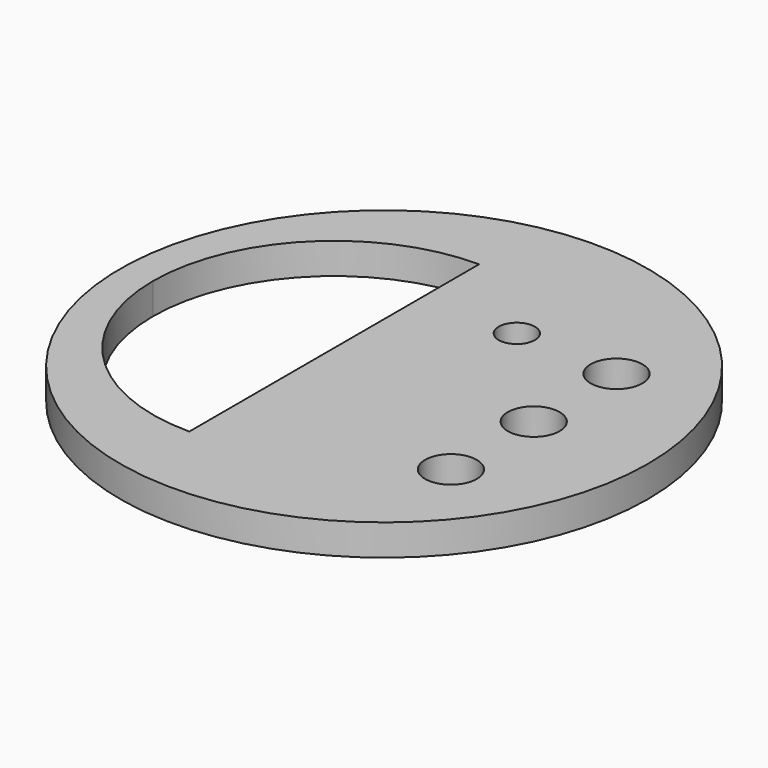
from build123d import *

# Parameters (mm, degrees)
F0_R     = 51
F0_R_2   = 5
F0_R_3   = 3.5
F1_DEPTH = 6


with BuildPart() as f1:
    # F0 (on Top) → F1 (new body)
    with BuildSketch(Plane.XY):
        Circle(F0_R)
        with Locations((28.914182, -20)):
            Circle(F0_R_2, mode=Mode.SUBTRACT)
        with BuildLine():
            ThreePointArc((-44.63806, 0), (-34.386797, 24.748737), (-9.63806, 35))
            Line((-9.63806, 35), (-9.63806, -35))
            ThreePointArc((-9.63806, -35), (-34.386797, -24.748737), (-44.63806, 0))
        make_face(mode=Mode.SUBTRACT)
        with Locations((8.914182, 20.921642)):
            Circle(F0_R_3, mode=Mode.SUBTRACT)
        with Locations((28.914182, 0)):
            Circle(F0_R_2, mode=Mode.SUBTRACT)
        with Locations((28.914182, 20)):
            Circle(F0_R_2, mode=Mode.SUBTRACT)
    extrude(amount=F1_DEPTH)


solid = f1.part
